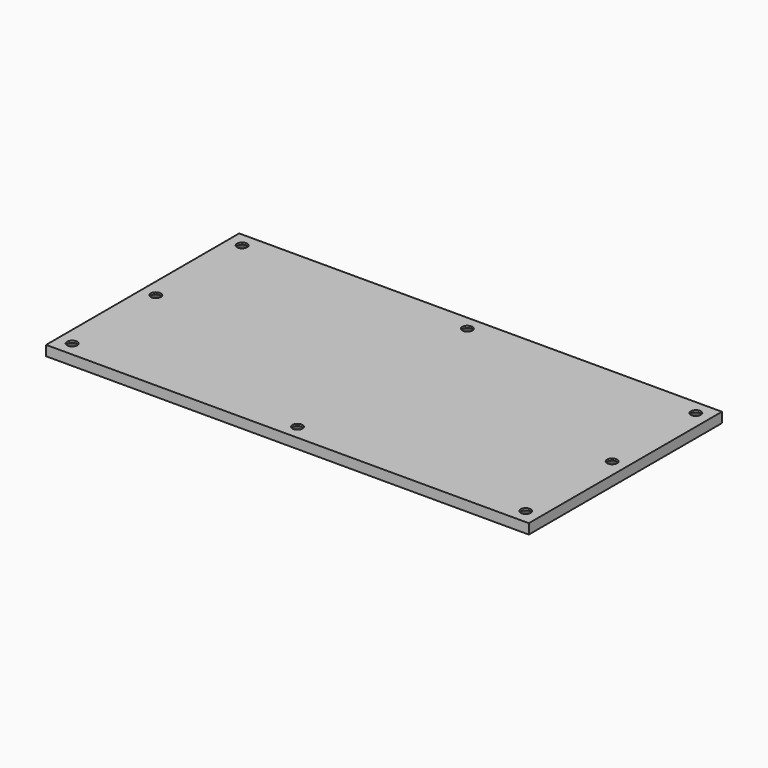
from build123d import *

# Parameters (mm, degrees)
F0_W           = 152.4
F0_H           = 76.2
F1_DEPTH       = 3.175
F3_D           = 3.175
F3_CSINK_D     = 7.62
F3_CSINK_ANGLE = 82


with BuildPart() as f1:
    # F0 (on Top) → F1 (new body)
    with BuildSketch(Plane.XY):
        with Locations((76.2, 38.1)):
            Rectangle(F0_W, F0_H)
    extrude(amount=F1_DEPTH)

    # F3 (through all)
    with Locations(Plane(origin=(0, 0, 0), x_dir=(1, 0, 0), z_dir=(0, 0, -1))):
        with Locations((4.572, -4.572), (4.572, -37.592), (4.572, -71.628), (75.692, -71.628), (147.828, -71.628), (147.828, -38.608), (147.828, -457.2), (75.692, -4.572), (147.763029, -4.572)):
            CounterSinkHole(F3_D / 2, F3_CSINK_D / 2, counter_sink_angle=F3_CSINK_ANGLE)


solid = f1.part
